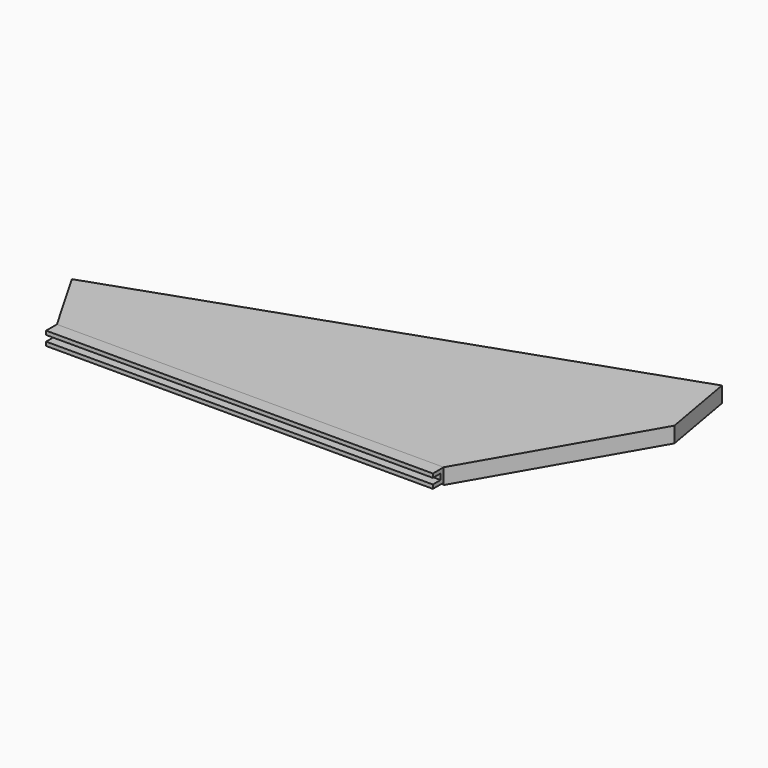
from build123d import *

# Parameters (mm, degrees)
F1_DEPTH = 3


with BuildPart() as f1:
    # F0 (on Top) → F1 (new body)
    with BuildSketch(Plane.XY):
        Polygon((243.0540728933, 125.9948504989), (-20, 34.6410161514), (0, 0), (200, 0), (250, 86.6025403784), align=None)
    extrude(amount=F1_DEPTH)

    # F4: sweep along a path in F4_path
    with BuildLine(Plane(origin=(0, 0, 0), x_dir=(0.5, -0.8660254038, 0), z_dir=(0.8660254038, 0.5, 0))) as f4_path:
        Line((0, 0), (-40, 0))
    # F2 (on face) → F4 (sweep)
    with BuildSketch(Plane(origin=(-12.8879339993, 37.1109056769, 0), x_dir=(-0.9446562877, -0.3280617292, 0), z_dir=(-0.3280617292, 0.9446562877, 0))):
        Polygon((7.5287340946, -5.1), (7.5287340946, 0), (0.5287340946, 0), (0.5287340946, -5.1), (2.5287340946, -5.1), (2.5287340946, -0.1), (5.5287340946, -0.1), (5.5287340946, -5.1), align=None)
    sweep(path=f4_path.line)

    # F6: sweep along a path in F6_path
    with BuildLine(Plane(origin=(250, 86.6025403784, 0), x_dir=(0, -1, 0), z_dir=(0, 0, -1))) as f6_path:
        Line((-39.3923101205, 6.9459271067), (0, 0))
        Line((0, 0), (86.6025403784, 50))
    # F3 (on face) → F6 (sweep)
    with BuildSketch(Plane(origin=(-12.8879339993, 37.1109056769, 0), x_dir=(-0.9446562877, -0.3280617292, 0), z_dir=(-0.3280617292, 0.9446562877, 0))):
        Polygon((-263.9366467264, 0), (-270.9366467264, 0), (-270.9366467264, -5.1), (-268.9366467264, -5.1), (-268.9366467264, -0.1), (-265.9366467264, -0.1), (-265.9366467264, -5.1), (-263.9366467264, -5.1), align=None)
    sweep(path=f6_path.line, transition=Transition.RIGHT)


with BuildPart() as f7:
    # F7: sweep along a path in F7_path
    with BuildLine(Plane(origin=(0, 0, 3), x_dir=(0, 1, 0), z_dir=(0, 0, 1))) as f7_path:
        Line((0, 0), (0, -200))
    # F5 (on Right) → F7 (sweep)
    with BuildSketch(Plane.YZ):
        Polygon((0, 0), (0, 3), (-7, 3), (-7, 1), (-2, 1), (-2, -2), (-7, -2), (-7, -4), (0, -4), align=None)
    sweep(path=f7_path.line)


solid = Compound([f1.part, f7.part])
